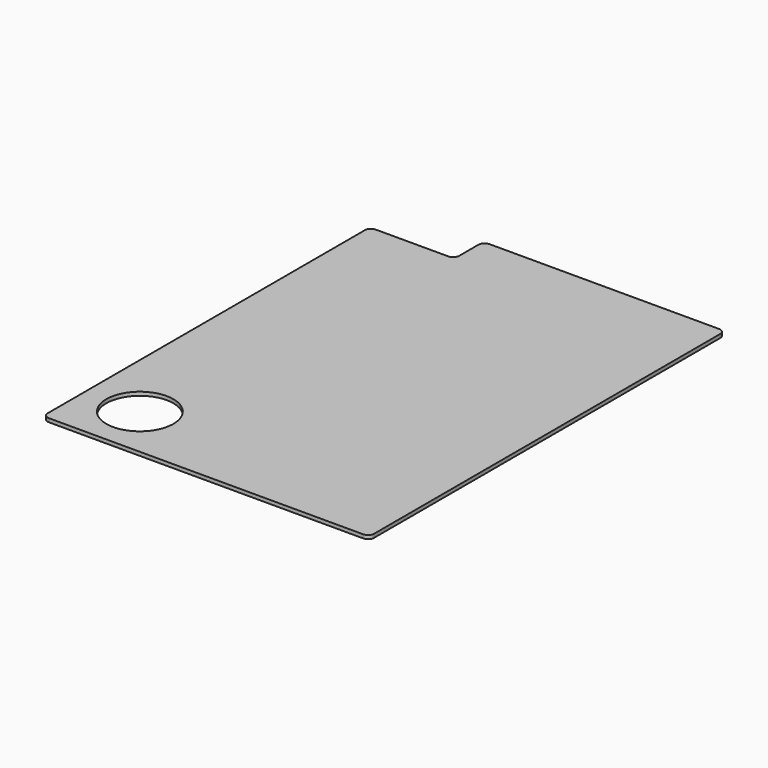
from build123d import *

# Parameters (mm, degrees)
PAD012_DEPTH            = 3
SKETCH090_R             = 27.75
POCKET039_DEPTH         = 0.001
POCKET039_DEPTH_BACK    = 3.001
POCKET040_DEPTH         = 0.001
POCKET040_DEPTH_BACK    = 3.001
BODY081_PLACEMENT_ANGLE = 90


with BuildPart() as part:
    # Sketch089 → Pad012 (new body)
    with BuildSketch(Plane.XY):
        with BuildLine():
            ThreePointArc((-184, -130), (-182.535534, -133.535534), (-179, -135))
            Line((179, -135), (-179, -135))
            ThreePointArc((179, -135), (182.535534, -133.535534), (184, -130))
            Line((184, 130), (184, -130))
            ThreePointArc((184, 130), (182.535534, 133.535534), (179, 135))
            Line((-179, 135), (179, 135))
            ThreePointArc((-179, 135), (-182.535534, 133.535534), (-184, 130))
            Line((-184, -130), (-184, 130))
        make_face()
    extrude(amount=PAD012_DEPTH)

    # Sketch090 → Pocket039 (cut, two sides)
    with BuildSketch(Plane(origin=(-140, 90, 0), x_dir=(1, 0, 0), z_dir=(0, 0, 1))) as pocket039_sk:
        Circle(SKETCH090_R)
    extrude(amount=-POCKET039_DEPTH, mode=Mode.SUBTRACT)
    extrude(pocket039_sk.sketch, amount=POCKET039_DEPTH_BACK, mode=Mode.SUBTRACT)

    # Sketch091 → Pocket040 (cut, two sides)
    with BuildSketch(Plane.XY) as pocket040_sk:
        with BuildLine():
            Line((184, 135), (149, 135))
            ThreePointArc((154, 130), (152.535534, 133.535534), (149, 135))
            Line((154, 130), (154, 70))
            ThreePointArc((154, 70), (155.464466, 66.464466), (159, 65))
            Line((159, 65), (179, 65))
            ThreePointArc((184, 60), (182.535534, 63.535534), (179, 65))
            Line((184, 60), (184, 135))
        make_face()
    extrude(amount=-POCKET040_DEPTH, mode=Mode.SUBTRACT)
    extrude(pocket040_sk.sketch, amount=POCKET040_DEPTH_BACK, mode=Mode.SUBTRACT)


with BuildPart() as part_1:
    # Body081 placement: moved
    add(part.part.rotate(Axis((0, 0, 0), (0, 0, 1)), BODY081_PLACEMENT_ANGLE))


solid = part_1.part
